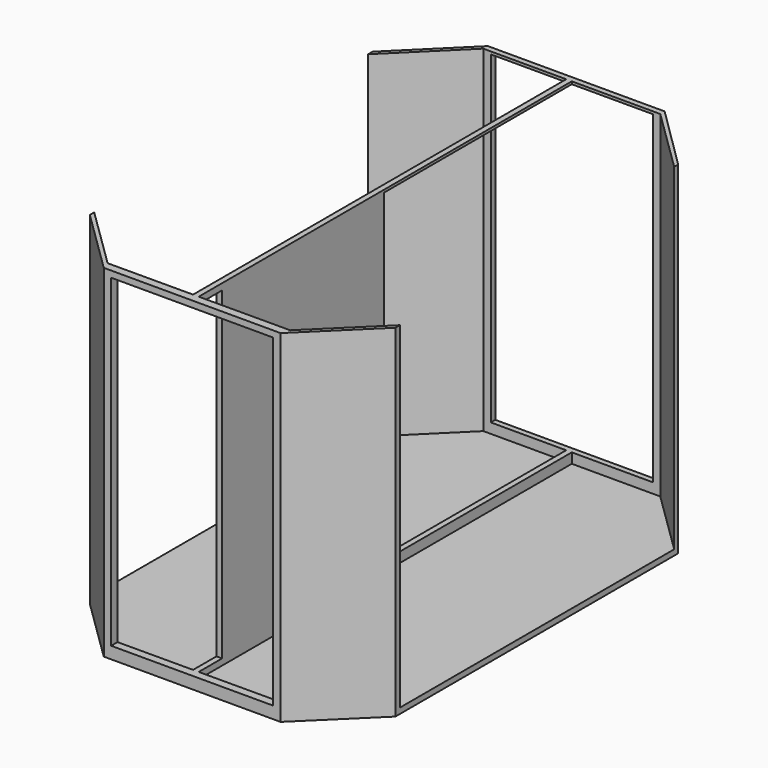
from build123d import *

# Parameters (mm, degrees)
F1_DEPTH = 3.81
F2_DEPTH = 228.6
F3_W     = 55
F3_H     = 220
F4_DEPTH = 25.4
F5_W     = 55
F5_H     = 220
F7_DEPTH = 228.6


with BuildPart() as f1:
    # F0 (on Top) → F1 (new body)
    with BuildSketch(Plane.XY):
        Polygon((-60.0453081081, 159.1941417708), (-56.19, 163.0041417708), (-60, 163.0041417708), (-103.7388, 119.8241417708), (-103.7388, 116.0141417708), align=None)
        Polygon((60.0809994569, 159.1941417708), (56.19, 163.0041417708), (-56.19, 163.0041417708), (-60.0453081081, 159.1941417708), (-3.8048, 159.1941417708), (0.0052, 159.1941417708), align=None)
        Polygon((-3.8048, 159.1941417708), (-60.0453081081, 159.1941417708), (-103.7388, 116.0141417708), (-103.7388, -116.4451715096), (-61.7023795136, -157.6065141999), (-3.8048, -157.4549383449), align=None)
        Polygon((0.0052, -157.4449637654), (0.0052, 159.1941417708), (-3.8048, 159.1941417708), (-3.8048, -157.4549383449), align=None)
        Polygon((103.7388, -116.3658582292), (103.7388, 116.4451715096), (60.0809994569, 159.1941417708), (0.0052, 159.1941417708), (0.0052, -157.4449637654), (61.9519895189, -157.2827870792), align=None)
        Polygon((103.7388, 119.8241417708), (60, 163.0041417708), (56.19, 163.0041417708), (60.0809994569, 159.1941417708), (103.7388, 116.4451715096), align=None)
        Polygon((103.7388, -120.1758582292), (103.7388, -116.3658582292), (61.9519895189, -157.2827870792), (56.1090005431, -163.0041417708), (60, -163.0041417708), align=None)
        Polygon((56.1090005431, -163.0041417708), (61.9519895189, -157.2827870792), (0.0052, -157.4449637654), (-3.8048, -157.4549383449), (-61.7023795136, -157.6065141999), (-56.19, -163.0041417708), align=None)
        Polygon((-61.7023795136, -157.6065141999), (-103.7388, -116.4451715096), (-103.7388, -120.1758582292), (-60, -163.0041417708), (-56.19, -163.0041417708), align=None)
        Polygon((103.7388, -116.3658582292), (103.7388, 116.4451715096), (60.0809994569, 159.1941417708), (0.0052, 159.1941417708), (0.0052, -157.4449637654), (61.9519895189, -157.2827870792), align=None)
        Polygon((-3.8048, 159.1941417708), (-60.0453081081, 159.1941417708), (-103.7388, 116.0141417708), (-103.7388, -116.4451715096), (-61.7023795136, -157.6065141999), (-3.8048, -157.4549383449), align=None)
    extrude(amount=-F1_DEPTH)

    # F0 (on Top) → F2 (join)
    with BuildSketch(Plane.XY):
        Polygon((60.0809994569, 159.1941417708), (56.19, 163.0041417708), (-56.19, 163.0041417708), (-60.0453081081, 159.1941417708), (-3.8048, 159.1941417708), (0.0052, 159.1941417708), align=None)
        Polygon((103.7388, 119.8241417708), (60, 163.0041417708), (56.19, 163.0041417708), (60.0809994569, 159.1941417708), (103.7388, 116.4451715096), align=None)
        Polygon((-60.0453081081, 159.1941417708), (-56.19, 163.0041417708), (-60, 163.0041417708), (-103.7388, 119.8241417708), (-103.7388, 116.0141417708), align=None)
        Polygon((56.1090005431, -163.0041417708), (61.9519895189, -157.2827870792), (0.0052, -157.4449637654), (-3.8048, -157.4549383449), (-61.7023795136, -157.6065141999), (-56.19, -163.0041417708), align=None)
        Polygon((-61.7023795136, -157.6065141999), (-103.7388, -116.4451715096), (-103.7388, -120.1758582292), (-60, -163.0041417708), (-56.19, -163.0041417708), align=None)
        Polygon((103.7388, -120.1758582292), (103.7388, -116.3658582292), (61.9519895189, -157.2827870792), (56.1090005431, -163.0041417708), (60, -163.0041417708), align=None)
        Polygon((0.0052, -157.4449637654), (0.0052, 159.1941417708), (-3.8048, 159.1941417708), (-3.8048, -157.4549383449), align=None)
    extrude(amount=F2_DEPTH)

    # F3 (on face) → F4 (cut)
    with BuildSketch(Plane.XZ.offset(163.0041417708)):
        with Locations((27.5, 114.3)):
            Rectangle(F3_W, F3_H)
        with Locations((-27.5, 114.3)):
            Rectangle(F3_W, F3_H)
    extrude(amount=-F4_DEPTH, mode=Mode.SUBTRACT)

    # F5 (on Front) → F7 (cut)
    with BuildSketch(Plane.XZ):
        with Locations((27.5, 116.84)):
            Rectangle(F5_W, F5_H)
        with Locations((-27.5, 116.84)):
            Rectangle(F5_W, F5_H)
    extrude(amount=-F7_DEPTH, mode=Mode.SUBTRACT)


solid = f1.part
